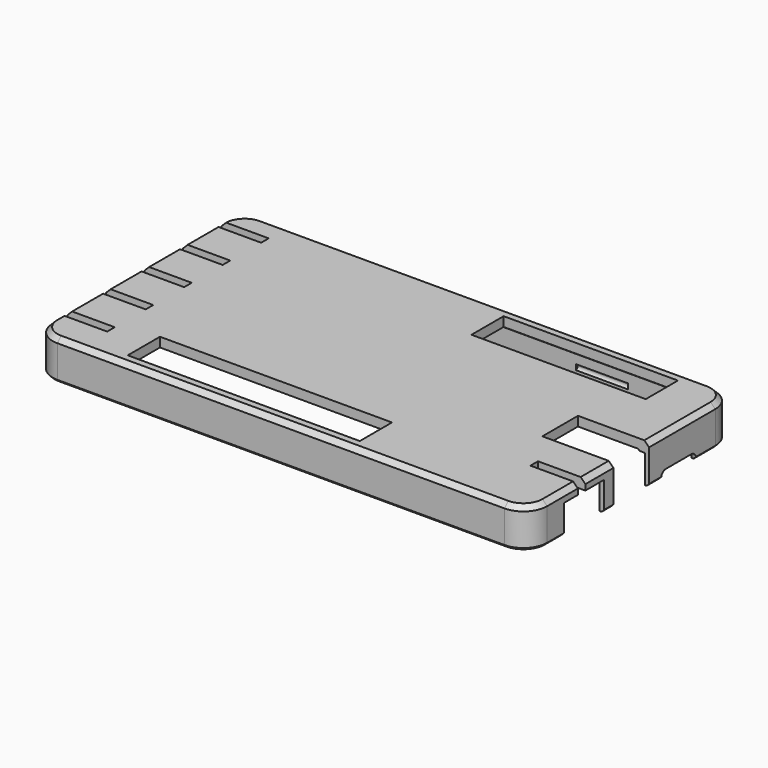
from build123d import *

# Parameters (mm, degrees)
PAD006_DEPTH               = 8.3
POCKET_DEPTH               = 6
PAD006_MIRRORED010_2_DEPTH = 8.3
POCKET_MIRRORED010_2_DEPTH = 6
PAD007_DEPTH               = 2
PAD007_MIRRORED014_2_DEPTH = 2
POCKET003_DEPTH            = 30.5
PAD009_DEPTH               = 19.5
PAD009_FACE36_W            = 39
PAD009_FACE36_H            = 1.2
POCKET004_DEPTH            = 0.2
CHAMFER005_SIZE            = 0.5
CHAMFER006_SIZE            = 1
CHAMFER007_SIZE            = 0.2999
SKETCH030_W                = 49
SKETCH030_H                = 8.5
SKETCH030_W_2              = 36.8
POCKET010_DEPTH            = 5
POCKET011_DEPTH            = 10
SKETCH018_W                = 9.4
SKETCH018_H                = 50
POCKET012_DEPTH            = 15
POCKET013_DEPTH            = 5
POCKET014_DEPTH            = 10
POCKET015_DEPTH            = 10
POCKET016_DEPTH            = 10
POCKET017_DEPTH            = 10
POCKET018_DEPTH            = 10


with BuildPart() as part:
    # Sketch008 (on DatumPlane) → Pad006 (new body)
    with BuildSketch(Plane.XY.offset(17.8)):
        with BuildLine():
            ThreePointArc((-47.2, 27.2), (-50.735534, 25.735534), (-52.2, 22.2))
            Line((-52.2, 0), (-52.2, 22.2))
            Line((-50.2, 0), (-52.2, 0))
            Line((-50.2, 22.2), (-50.2, 0))
            ThreePointArc((-47.2, 25.2), (-49.32132, 24.32132), (-50.2, 22.2))
            Line((0, 25.2), (-47.2, 25.2))
            Line((0, 27.2), (0, 25.2))
            Line((-47.2, 27.2), (0, 27.2))
        make_face()
    pad006 = extrude(amount=-PAD006_DEPTH)

    # Sketch009 (on Face10 of Pad006) → Pocket (cut)
    with BuildSketch(Plane(origin=(0, 0, 9.5), x_dir=(1, 0, 0), z_dir=(0, 0, -1))):
        with BuildLine():
            ThreePointArc((-50.2, -22.2), (-49.32132, -24.32132), (-47.2, -25.2))
            Line((-47.2, -25.2), (0, -25.2))
            Line((0, -25.2), (0, -26.3))
            Line((0, -26.3), (-47.2, -26.3))
            ThreePointArc((-51.3, -22.2), (-50.099138, -25.099138), (-47.2, -26.3))
            Line((-51.3, 0), (-51.3, -22.2))
            Line((-50.2, 0), (-51.3, 0))
            Line((-50.2, -22.2), (-50.2, 0))
        make_face()
    pocket = extrude(amount=-POCKET_DEPTH, mode=Mode.SUBTRACT)

    # Sketch008 Mirrored010 2 → Pad006 Mirrored010 2 (add)
    with BuildSketch(Plane(origin=(0, 0, 17.8), x_dir=(-1, 0, 0), z_dir=(0, 0, -1))):
        with BuildLine():
            ThreePointArc((-47.2, 27.2), (-50.735534, 25.735534), (-52.2, 22.2))
            Line((-52.2, 0), (-52.2, 22.2))
            Line((-50.2, 0), (-52.2, 0))
            Line((-50.2, 22.2), (-50.2, 0))
            ThreePointArc((-47.2, 25.2), (-49.32132, 24.32132), (-50.2, 22.2))
            Line((0, 25.2), (-47.2, 25.2))
            Line((0, 27.2), (0, 25.2))
            Line((-47.2, 27.2), (0, 27.2))
        make_face()
    pad006_mirrored010_2 = extrude(amount=PAD006_MIRRORED010_2_DEPTH)

    # Sketch009 Mirrored010 2 → Pocket Mirrored010 2 (cut)
    with BuildSketch(Plane(origin=(0, 0, 9.5), x_dir=(-1, 0, 0), z_dir=(0, 0, 1))):
        with BuildLine():
            ThreePointArc((-50.2, -22.2), (-49.32132, -24.32132), (-47.2, -25.2))
            Line((-47.2, -25.2), (0, -25.2))
            Line((0, -25.2), (0, -26.3))
            Line((0, -26.3), (-47.2, -26.3))
            ThreePointArc((-51.3, -22.2), (-50.099138, -25.099138), (-47.2, -26.3))
            Line((-51.3, 0), (-51.3, -22.2))
            Line((-50.2, 0), (-51.3, 0))
            Line((-50.2, -22.2), (-50.2, 0))
        make_face()
    pocket_mirrored010_2 = extrude(amount=POCKET_MIRRORED010_2_DEPTH, mode=Mode.SUBTRACT)

    # Mirrored011: Pad006, Pocket, Pad006 Mirrored010 2, Pocket Mirrored010 2 across Sketch008 H_Axis
    add(pad006.mirror(Plane(origin=(0, 0, 17.8), x_dir=(0, 0, 1), z_dir=(0, 1, 0))))
    add(pocket.mirror(Plane(origin=(0, 0, 17.8), x_dir=(0, 0, 1), z_dir=(0, 1, 0))), mode=Mode.SUBTRACT)
    add(pad006_mirrored010_2.mirror(Plane(origin=(0, 0, 17.8), x_dir=(0, 0, 1), z_dir=(0, 1, 0))))
    add(pocket_mirrored010_2.mirror(Plane(origin=(0, 0, 17.8), x_dir=(0, 0, 1), z_dir=(0, 1, 0))), mode=Mode.SUBTRACT)

    # Sketch011 (on DatumPlane) → Pad007 (join)
    with BuildSketch(Plane.XY.offset(17.8)):
        with BuildLine():
            ThreePointArc((-47.2, 25.2), (-49.32132, 24.32132), (-50.2, 22.2))
            Line((-50.2, 22.2), (-50.2, 0))
            Line((-50.2, 0), (0, 0))
            Line((0, 0), (0, 25.2))
            Line((0, 25.2), (-47.2, 25.2))
        make_face()
    pad007 = extrude(amount=-PAD007_DEPTH)

    # Sketch011 Mirrored014 2 → Pad007 Mirrored014 2 (add)
    with BuildSketch(Plane(origin=(0, 0, 17.8), x_dir=(-1, 0, 0), z_dir=(0, 0, -1))):
        with BuildLine():
            ThreePointArc((-47.2, 25.2), (-49.32132, 24.32132), (-50.2, 22.2))
            Line((-50.2, 22.2), (-50.2, 0))
            Line((-50.2, 0), (0, 0))
            Line((0, 0), (0, 25.2))
            Line((0, 25.2), (-47.2, 25.2))
        make_face()
    pad007_mirrored014_2 = extrude(amount=PAD007_MIRRORED014_2_DEPTH)

    # Mirrored015: Pad007, Pad007 Mirrored014 2 across Sketch011 H_Axis
    add(pad007.mirror(Plane(origin=(0, 0, 17.8), x_dir=(0, 0, 1), z_dir=(0, 1, 0))))
    add(pad007_mirrored014_2.mirror(Plane(origin=(0, 0, 17.8), x_dir=(0, 0, 1), z_dir=(0, 1, 0))))

    # Sketch013 → Pocket003 (cut, symmetric)
    with BuildSketch(Plane.YZ):
        with BuildLine():
            ThreePointArc((-26.1, 12.9), (-26.7, 12.3), (-26.1, 11.7))
            Line((-26.1, 12.9), (-26.1, 11.7))
        make_face()
    pocket003 = extrude(amount=POCKET003_DEPTH, both=True, mode=Mode.SUBTRACT)

    # Sketch013 → Pad009 (join, symmetric)
    with BuildSketch(Plane.YZ):
        with BuildLine():
            ThreePointArc((-26.1, 12.9), (-26.7, 12.3), (-26.1, 11.7))
            Line((-26.1, 12.9), (-26.1, 11.7))
        make_face()
    pad009 = extrude(amount=PAD009_DEPTH, both=True)

    # Pad009 Face36 → Pocket004 (cut)
    with BuildSketch(Plane(origin=(0, -26.1, 12.3), x_dir=(1, 0, 0), z_dir=(0, 1, 0))):
        Rectangle(PAD009_FACE36_W, PAD009_FACE36_H)
    pocket004 = extrude(amount=-POCKET004_DEPTH, mode=Mode.SUBTRACT)

    # Mirrored017: Pocket003, Pad009, Pocket004 across Sketch013 V_Axis
    add(pocket003.mirror(Plane(origin=(0, 0, 0), x_dir=(1, 0, 0), z_dir=(0, 1, 0))), mode=Mode.SUBTRACT)
    add(pad009.mirror(Plane(origin=(0, 0, 0), x_dir=(1, 0, 0), z_dir=(0, 1, 0))))
    add(pocket004.mirror(Plane(origin=(0, 0, 0), x_dir=(1, 0, 0), z_dir=(0, 1, 0))), mode=Mode.SUBTRACT)

    # Chamfer005
    chamfer005_edges = [part.edges().sort_by_distance(p)[0] for p in [
        (0, -27.2, 9.5),
    ]]
    chamfer(chamfer005_edges, length=CHAMFER005_SIZE)

    # Chamfer006
    chamfer006_edges = [part.edges().sort_by_distance(p)[0] for p in [
        (0, -27.2, 17.8),
    ]]
    chamfer(chamfer006_edges, length=CHAMFER006_SIZE)

    # Chamfer007
    chamfer007_edges = [part.edges().sort_by_distance(p)[0] for p in [
        (50.2, 0, 15.8),
    ]]
    chamfer(chamfer007_edges, length=CHAMFER007_SIZE)

    # Sketch030 (on DatumPlane) → Pocket010 (cut)
    with BuildSketch(Plane.XY.offset(17.8)):
        with Locations((-9.76, -20.57)):
            Rectangle(SKETCH030_W, SKETCH030_H)
        with Locations((23.81, 20.57)):
            Rectangle(SKETCH030_W_2, SKETCH030_H)
    extrude(amount=-POCKET010_DEPTH, mode=Mode.SUBTRACT)

    # Sketch017 (on DatumPlane) → Pocket011 (cut)
    with BuildSketch(Plane.YZ.offset(52.2)):
        Polygon((-7.2, 7.6), (-7.2, 15.6), (-12.1, 15.6), (-12.1, 18.1), (-14.1, 18.1), (-14.1, 15.6), (-17.8, 15.6), (-17.8, 7.6), (-17.8, 2.6), (-7.2, 2.6), align=None)
    extrude(amount=-POCKET011_DEPTH, mode=Mode.SUBTRACT)

    # Sketch018 (on DatumPlane) → Pocket012 (cut)
    with BuildSketch(Plane.YZ.offset(52.2)):
        with Locations((0, -6)):
            Rectangle(SKETCH018_W, SKETCH018_H)
    extrude(amount=-POCKET012_DEPTH, mode=Mode.SUBTRACT)

    # Sketch019 (on DatumPlane) → Pocket013 (cut)
    with BuildSketch(Plane.YZ.offset(52.2)):
        with BuildLine():
            Line((7.9, -40.25), (7.9, 9.75))
            ThreePointArc((9.15, 11), (8.266117, 10.633883), (7.9, 9.75))
            Line((9.15, 11), (15.85, 11))
            ThreePointArc((17.1, 9.75), (16.733883, 10.633883), (15.85, 11))
            Line((17.1, 9.75), (17.1, -40.25))
            Line((7.9, -40.25), (17.1, -40.25))
        make_face()
    extrude(amount=-POCKET013_DEPTH, mode=Mode.SUBTRACT)

    # Sketch026 (on DatumPlane) → Pocket014 (cut)
    with BuildSketch(Plane(origin=(-52.2, 0, 0), x_dir=(0, -1, 0), z_dir=(-1, 0, 0))):
        Polygon((-15.02, 7.6), (-15.02, 15.6), (-20.32, 15.6), (-20.32, 18.1), (-22.32, 18.1), (-22.32, 15.6), (-25.62, 15.6), (-25.62, 7.6), (-25.62, -42.4), (-15.02, -42.4), align=None)
    extrude(amount=-POCKET014_DEPTH, mode=Mode.SUBTRACT)

    # Sketch027 (on DatumPlane) → Pocket015 (cut)
    with BuildSketch(Plane(origin=(-52.2, 0, 0), x_dir=(0, -1, 0), z_dir=(-1, 0, 0))):
        Polygon((-4.86, 7.6), (-4.86, 15.6), (-10.16, 15.6), (-10.16, 18.1), (-12.16, 18.1), (-12.16, 15.6), (-15.46, 15.6), (-15.46, 7.6), (-15.46, -42.4), (-4.86, -42.4), align=None)
    extrude(amount=-POCKET015_DEPTH, mode=Mode.SUBTRACT)

    # Sketch025 (on DatumPlane) → Pocket016 (cut)
    with BuildSketch(Plane(origin=(-52.2, 0, 0), x_dir=(0, -1, 0), z_dir=(-1, 0, 0))):
        Polygon((5.3, 7.6), (5.3, 15.6), (0, 15.6), (0, 18.1), (-2, 18.1), (-2, 15.6), (-5.3, 15.6), (-5.3, 7.6), (-5.3, -42.4), (5.3, -42.4), align=None)
    extrude(amount=-POCKET016_DEPTH, mode=Mode.SUBTRACT)

    # Sketch028 (on DatumPlane) → Pocket017 (cut)
    with BuildSketch(Plane(origin=(-52.2, 0, 0), x_dir=(0, -1, 0), z_dir=(-1, 0, 0))):
        Polygon((15.46, 7.6), (15.46, 15.6), (10.16, 15.6), (10.16, 18.1), (8.16, 18.1), (8.16, 15.6), (4.86, 15.6), (4.86, 7.6), (4.86, -42.4), (15.46, -42.4), align=None)
    extrude(amount=-POCKET017_DEPTH, mode=Mode.SUBTRACT)

    # Sketch029 (on DatumPlane) → Pocket018 (cut)
    with BuildSketch(Plane(origin=(-52.2, 0, 0), x_dir=(0, -1, 0), z_dir=(-1, 0, 0))):
        Polygon((25.62, 7.6), (25.62, 15.6), (20.32, 15.6), (20.32, 18.1), (18.32, 18.1), (18.32, 15.6), (15.02, 15.6), (15.02, 7.6), (15.02, -42.4), (25.62, -42.4), align=None)
    extrude(amount=-POCKET018_DEPTH, mode=Mode.SUBTRACT)


solid = part.part
